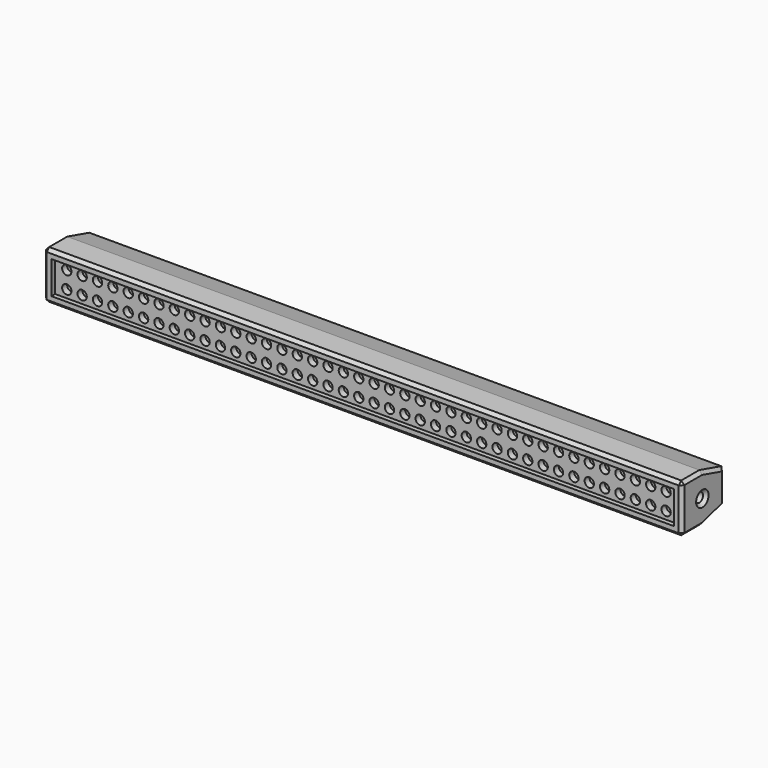
from build123d import *

# Parameters (mm, degrees)
F1_DEPTH = 520.7
F2_W     = 1016
F2_H     = 53.34
F3_DEPTH = 7.62
F4_R     = 7.62
F5_DEPTH = 10.16
F6_R     = 7.62
F7_DEPTH = 19.05
F8_R     = 7.62
F9_DEPTH = 19.05
F10_SIZE = 5.08


with BuildPart() as f1:
    # F0 (on Right) → F1 (new body, symmetric)
    with BuildSketch(Plane.YZ):
        Polygon((41.91, 39.37), (0, 39.37), (0, 0), (0, -39.37), (41.91, -39.37), (86.868, -26.67), (86.868, 0), (86.868, 26.67), align=None)
    extrude(amount=F1_DEPTH, both=True)

    # F2 (on face) → F3 (cut)
    with BuildSketch(Plane.XZ):
        Rectangle(F2_W, F2_H)
    extrude(amount=-F3_DEPTH, mode=Mode.SUBTRACT)

    # F4 (on face) → F5 (cut)
    with BuildSketch(Plane.XZ.offset(-7.62)):
        with Locations((-488.95, 13.97)):
            Circle(F4_R)
        with Locations((-463.8758824825, 13.97)):
            Circle(F4_R)
        with Locations((-438.8017649651, 13.97)):
            Circle(F4_R)
        with Locations((-413.7276474476, 13.97)):
            Circle(F4_R)
        with Locations((-388.6535299301, 13.97)):
            Circle(F4_R)
        with Locations((-363.5794124126, 13.97)):
            Circle(F4_R)
        with Locations((-338.5052948952, 13.97)):
            Circle(F4_R)
        with Locations((-313.4311773777, 13.97)):
            Circle(F4_R)
        with Locations((-288.3570598602, 13.97)):
            Circle(F4_R)
        with Locations((-263.2829423428, 13.97)):
            Circle(F4_R)
        with Locations((-238.2088248253, 13.97)):
            Circle(F4_R)
        with Locations((-213.1347073078, 13.97)):
            Circle(F4_R)
        with Locations((-188.0605897903, 13.97)):
            Circle(F4_R)
        with Locations((-162.9864722729, 13.97)):
            Circle(F4_R)
        with Locations((-137.9123547554, 13.97)):
            Circle(F4_R)
        with Locations((-112.8382372379, 13.97)):
            Circle(F4_R)
        with Locations((-87.7641197205, 13.97)):
            Circle(F4_R)
        with Locations((-62.690002203, 13.97)):
            Circle(F4_R)
        with Locations((-37.6158846855, 13.97)):
            Circle(F4_R)
        with Locations((-12.541767168, 13.97)):
            Circle(F4_R)
        with Locations((12.5323503494, 13.97)):
            Circle(F4_R)
        with Locations((37.6064678669, 13.97)):
            Circle(F4_R)
        with Locations((62.6805853844, 13.97)):
            Circle(F4_R)
        with Locations((87.7547029018, 13.97)):
            Circle(F4_R)
        with Locations((112.8288204193, 13.97)):
            Circle(F4_R)
        with Locations((137.9029379368, 13.97)):
            Circle(F4_R)
        with Locations((162.9770554543, 13.97)):
            Circle(F4_R)
        with Locations((188.0511729717, 13.97)):
            Circle(F4_R)
        with Locations((213.1252904892, 13.97)):
            Circle(F4_R)
        with Locations((238.1994080067, 13.97)):
            Circle(F4_R)
        with Locations((263.2735255241, 13.97)):
            Circle(F4_R)
        with Locations((288.3476430416, 13.97)):
            Circle(F4_R)
        with Locations((313.4217605591, 13.97)):
            Circle(F4_R)
        with Locations((338.4958780766, 13.97)):
            Circle(F4_R)
        with Locations((363.569995594, 13.97)):
            Circle(F4_R)
        with Locations((388.6441131115, 13.97)):
            Circle(F4_R)
        with Locations((413.718230629, 13.97)):
            Circle(F4_R)
        with Locations((438.7923481464, 13.97)):
            Circle(F4_R)
        with Locations((463.8664656639, 13.97)):
            Circle(F4_R)
        with Locations((488.9405831814, 13.97)):
            Circle(F4_R)
        with Locations((488.9405831814, -13.97)):
            Circle(F4_R)
        with Locations((-413.7276474476, -13.97)):
            Circle(F4_R)
        with Locations((-313.4311773777, -13.97)):
            Circle(F4_R)
        with Locations((12.5323503494, -13.97)):
            Circle(F4_R)
        with Locations((-37.6158846855, -13.97)):
            Circle(F4_R)
        with Locations((-87.7641197205, -13.97)):
            Circle(F4_R)
        with Locations((-388.6535299301, -13.97)):
            Circle(F4_R)
        with Locations((413.718230629, -13.97)):
            Circle(F4_R)
        with Locations((363.569995594, -13.97)):
            Circle(F4_R)
        with Locations((313.4217605591, -13.97)):
            Circle(F4_R)
        with Locations((-288.3570598602, -13.97)):
            Circle(F4_R)
        with Locations((-488.95, -13.97)):
            Circle(F4_R)
        with Locations((238.1994080067, -13.97)):
            Circle(F4_R)
        with Locations((162.9770554543, -13.97)):
            Circle(F4_R)
        with Locations((62.6805853844, -13.97)):
            Circle(F4_R)
        with Locations((-363.5794124126, -13.97)):
            Circle(F4_R)
        with Locations((112.8288204193, -13.97)):
            Circle(F4_R)
        with Locations((-263.2829423428, -13.97)):
            Circle(F4_R)
        with Locations((-188.0605897903, -13.97)):
            Circle(F4_R)
        with Locations((463.8664656639, -13.97)):
            Circle(F4_R)
        with Locations((-238.2088248253, -13.97)):
            Circle(F4_R)
        with Locations((-463.8758824825, -13.97)):
            Circle(F4_R)
        with Locations((37.6064678669, -13.97)):
            Circle(F4_R)
        with Locations((-162.9864722729, -13.97)):
            Circle(F4_R)
        with Locations((-62.690002203, -13.97)):
            Circle(F4_R)
        with Locations((-112.8382372379, -13.97)):
            Circle(F4_R)
        with Locations((-12.541767168, -13.97)):
            Circle(F4_R)
        with Locations((438.7923481464, -13.97)):
            Circle(F4_R)
        with Locations((388.6441131115, -13.97)):
            Circle(F4_R)
        with Locations((338.4958780766, -13.97)):
            Circle(F4_R)
        with Locations((288.3476430416, -13.97)):
            Circle(F4_R)
        with Locations((213.1252904892, -13.97)):
            Circle(F4_R)
        with Locations((263.2735255241, -13.97)):
            Circle(F4_R)
        with Locations((-213.1347073078, -13.97)):
            Circle(F4_R)
        with Locations((-438.8017649651, -13.97)):
            Circle(F4_R)
        with Locations((-137.9123547554, -13.97)):
            Circle(F4_R)
        with Locations((-338.5052948952, -13.97)):
            Circle(F4_R)
        with Locations((137.9029379368, -13.97)):
            Circle(F4_R)
        with Locations((87.7547029018, -13.97)):
            Circle(F4_R)
        with Locations((188.0511729717, -13.97)):
            Circle(F4_R)
    extrude(amount=-F5_DEPTH, mode=Mode.SUBTRACT)

    # F6 (on face) → F7 (cut)
    with BuildSketch(Plane.YZ.offset(520.7)):
        with Locations((41.91, 0)):
            Circle(F6_R)
    extrude(amount=-F7_DEPTH, mode=Mode.SUBTRACT)

    # F8 (on face) → F9 (cut)
    with BuildSketch(Plane(origin=(-520.7, 0, 0), x_dir=(0, -1, 0), z_dir=(-1, 0, 0))):
        with Locations((-41.91, 0)):
            Circle(F8_R)
    extrude(amount=-F9_DEPTH, mode=Mode.SUBTRACT)

    # F10
    f10_edges = [f1.edges().sort_by_distance(p)[0] for p in [
        (-520.7, 20.955, 39.37),
        (-520.7, 64.389, 33.02),
        (-520.7, 0, 0),
        (-520.7, 86.868, 0),
        (-520.7, 20.955, -39.37),
        (-520.7, 64.389, -33.02),
        (-520.7, 49.53, 0),
        (520.7, 20.955, 39.37),
        (520.7, 64.389, 33.02),
        (520.7, 0, 0),
        (520.7, 86.868, 0),
        (520.7, 20.955, -39.37),
        (520.7, 64.389, -33.02),
        (520.7, 34.29, 0),
        (0, 0, 39.37),
        (0, 0, -39.37),
    ]]
    chamfer(f10_edges, length=F10_SIZE)


solid = f1.part
